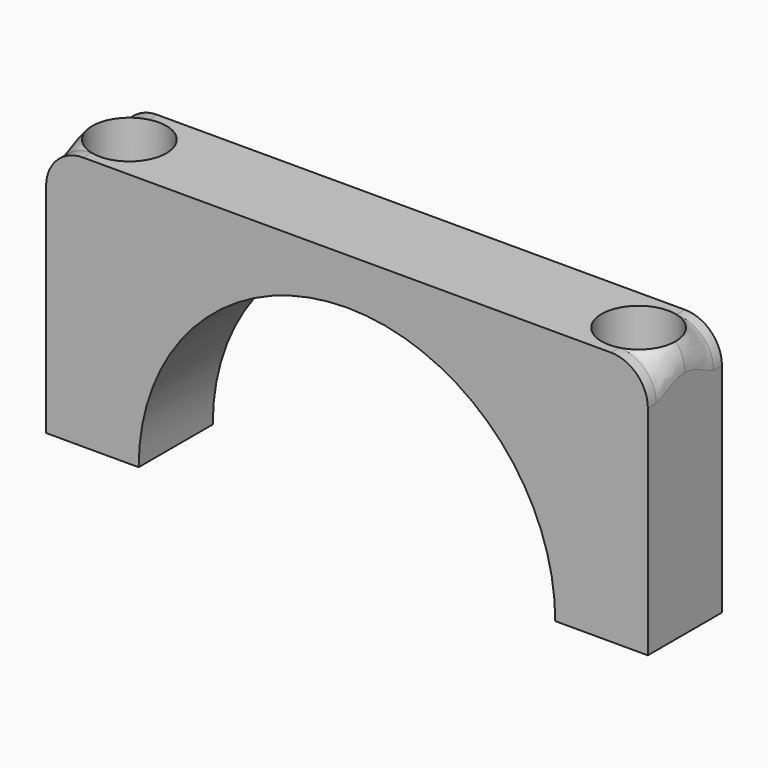
from build123d import *

# Parameters (mm, degrees)
CYLINDER001_R     = 22.5
CYLINDER001_DEPTH = 10
CYLINDER017_R     = 4
CYLINDER017_DEPTH = 22.5
CYLINDER016_R     = 4
CYLINDER016_DEPTH = 22.5
CYLINDER015_R     = 4
CYLINDER015_DEPTH = 28.5
CYLINDER013_R     = 2.25
CYLINDER013_DEPTH = 65
CYLINDER012_R     = 2.25
CYLINDER012_DEPTH = 65
PAD004_DEPTH      = 4
PAD003_DEPTH      = 4
CYLINDER014_R     = 4
CYLINDER014_DEPTH = 28.5
BOX002_W          = 65
BOX002_H          = 10
BOX002_DEPTH      = 27.5
FILLET001_R       = 4


with BuildPart() as cylinder001:
    # Cylinder001 → Cylinder001 (new body)
    with BuildSketch(Plane(origin=(0, 10, 37.5), x_dir=(1, 0, 0), z_dir=(0, -1, 0))):
        Circle(CYLINDER001_R)
    extrude(amount=CYLINDER001_DEPTH)


with BuildPart() as cylinder017:
    # Cylinder017 → Cylinder017 (new body)
    with BuildSketch(Plane(origin=(-27.5, 5, 0), x_dir=(1, 0, 0), z_dir=(0, 0, 1))):
        Circle(CYLINDER017_R)
    extrude(amount=CYLINDER017_DEPTH)


with BuildPart() as fusion009:
    # Cylinder016 → Cylinder016 (new body)
    with BuildSketch(Plane(origin=(27.5, 5, 0), x_dir=(1, 0, 0), z_dir=(0, 0, 1))):
        Circle(CYLINDER016_R)
    extrude(amount=CYLINDER016_DEPTH)

    # Fusion009: union Cylinder017
    add(cylinder017.part)


with BuildPart() as fusion009_1:
    # Fusion009 placement: moved
    add(fusion009.part.moved(Location((0, 0, 42.5))))


with BuildPart() as cylinder015:
    # Cylinder015 → Cylinder015 (new body)
    with BuildSketch(Plane(origin=(-27.5, 5, 0), x_dir=(1, 0, 0), z_dir=(0, 0, 1))):
        Circle(CYLINDER015_R)
    extrude(amount=CYLINDER015_DEPTH)


with BuildPart() as cylinder013:
    # Cylinder013 → Cylinder013 (new body)
    with BuildSketch(Plane(origin=(-27.5, 5, 0), x_dir=(1, 0, 0), z_dir=(0, 0, 1))):
        Circle(CYLINDER013_R)
    extrude(amount=CYLINDER013_DEPTH)


with BuildPart() as fusion007:
    # Cylinder012 → Cylinder012 (new body)
    with BuildSketch(Plane(origin=(27.5, 5, 0), x_dir=(1, 0, 0), z_dir=(0, 0, 1))):
        Circle(CYLINDER012_R)
    extrude(amount=CYLINDER012_DEPTH)

    # Fusion007: union Cylinder013
    add(cylinder013.part)


with BuildPart() as m4press003:
    # Sketch004 → Pad004 (new body)
    with BuildSketch(Plane.XY):
        Polygon((4, 0), (2, 3.464102), (-2, 3.464102), (-4, 0), (-2, -3.464102), (2, -3.464102), align=None)
    extrude(amount=PAD004_DEPTH)


with BuildPart() as m4press003_1:
    # Body004 placement: moved
    add(m4press003.part.moved(Location((27.5, 5, 28.5))))


with BuildPart() as m4press002:
    # Sketch003 → Pad003 (new body)
    with BuildSketch(Plane.XY):
        Polygon((4, 0), (2, 3.464102), (-2, 3.464102), (-4, 0), (-2, -3.464102), (2, -3.464102), align=None)
    extrude(amount=PAD003_DEPTH)


with BuildPart() as m4press002_1:
    # Body003 placement: moved
    add(m4press002.part.moved(Location((-27.5, 5, 28.5))))


with BuildPart() as connectors001:
    # Cylinder014 → Cylinder014 (new body)
    with BuildSketch(Plane(origin=(27.5, 5, 0), x_dir=(1, 0, 0), z_dir=(0, 0, 1))):
        Circle(CYLINDER014_R)
    extrude(amount=CYLINDER014_DEPTH)

    # Fusion008: union Cylinder015, Fusion007, M4Press003, M4Press002
    add(cylinder015.part)
    add(fusion007.part)
    add(m4press003_1.part)
    add(m4press002_1.part)


with BuildPart() as upper_part:
    # Box002 → Box002 (new body)
    with BuildSketch(Plane(origin=(-32.5, 0, 37.5), x_dir=(1, 0, 0), z_dir=(0, 0, 1))):
        with Locations((32.5, 5)):
            Rectangle(BOX002_W, BOX002_H)
    extrude(amount=BOX002_DEPTH)

    # Cut003: cut Connectors001
    add(connectors001.part, mode=Mode.SUBTRACT)

    # Cut004: cut Fusion009
    add(fusion009_1.part, mode=Mode.SUBTRACT)

    # Cut005: cut Cylinder001
    add(cylinder001.part, mode=Mode.SUBTRACT)

    # Fillet001
    fillet001_edges = [upper_part.edges().sort_by_distance(p)[0] for p in [
        (-32.5, 5, 65),
        (32.5, 5, 65),
    ]]
    fillet(fillet001_edges, radius=FILLET001_R)


solid = upper_part.part
